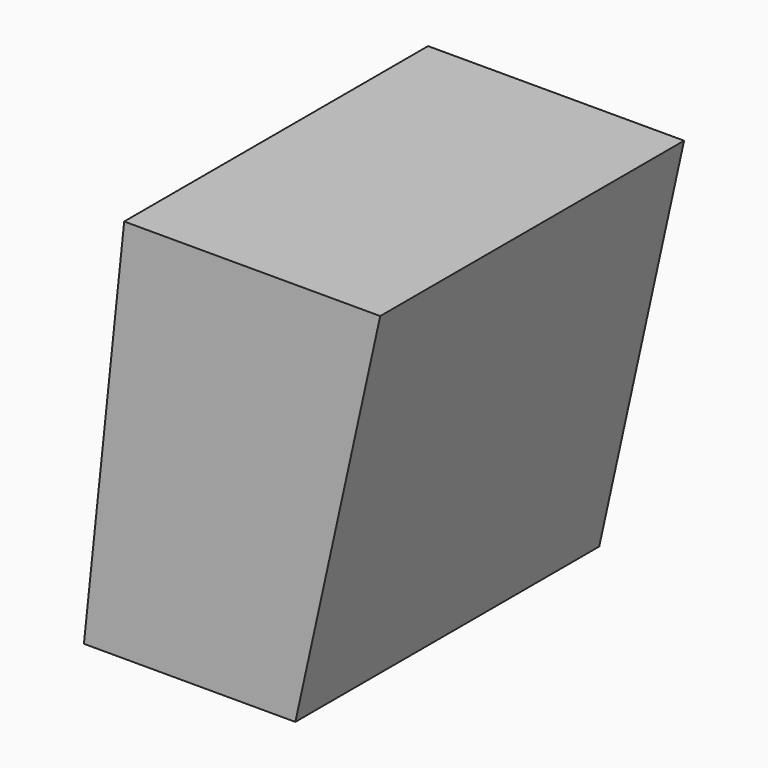
from build123d import *

# Parameters (mm, degrees)
F0_W     = 34.3383808227
F0_H     = 77.216
F1_DEPTH = 76.2


with BuildPart() as f1:
    # F0 (on Front) → F1 (new body)
    with BuildSketch(Plane.XZ):
        with Locations((-31.2077667178, 54.123554087)):
            Rectangle(F0_W, F0_H)
        Polygon((-14.0385763064, 92.731554087), (-14.0385763064, 15.515554087), (2.9852233825, 92.731554087), align=None)
        Polygon((-48.3769571291, 92.731554087), (-56.4565763064, 15.515554087), (-48.3769571291, 15.515554087), align=None)
    extrude(amount=F1_DEPTH)


solid = f1.part
